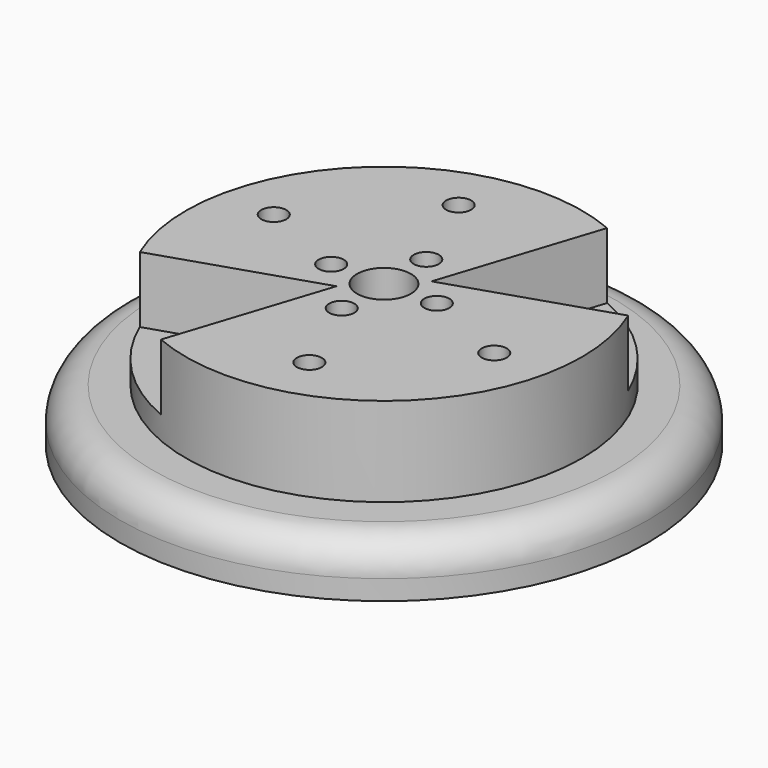
from build123d import *

# Parameters (mm, degrees)
F0_R     = 30
F0_R_2   = 1.9
F0_R_3   = 4.075
F1_DEPTH = 21.5
F0_R_4   = 40
F2_DEPTH = 8
F3_R     = 1.9
F4_DEPTH = 10
F5_R     = 5


with BuildPart() as f1:
    # F0 (on Top) → F1 (new body)
    with BuildSketch(Plane.XY):
        Circle(F0_R)
        with Locations((-15.5563491861, -15.5563491861)):
            Circle(F0_R_2, mode=Mode.SUBTRACT)
        with Locations((5.6940189923, -21.2503681784)):
            Circle(F0_R_2, mode=Mode.SUBTRACT)
        with Locations((0, -8)):
            Circle(F0_R_2, mode=Mode.SUBTRACT)
        with Locations((21.2503681784, -5.6940189923)):
            Circle(F0_R_2, mode=Mode.SUBTRACT)
        with Locations((-21.2503681784, 5.6940189923)):
            Circle(F0_R_2, mode=Mode.SUBTRACT)
        with Locations((-8, 0)):
            Circle(F0_R_2, mode=Mode.SUBTRACT)
        with Locations((-5.6940189923, 21.2503681784)):
            Circle(F0_R_2, mode=Mode.SUBTRACT)
        Circle(F0_R_3, mode=Mode.SUBTRACT)
        with Locations((8, 0)):
            Circle(F0_R_2, mode=Mode.SUBTRACT)
        with Locations((0, 8)):
            Circle(F0_R_2, mode=Mode.SUBTRACT)
        with Locations((15.5563491861, 15.5563491861)):
            Circle(F0_R_2, mode=Mode.SUBTRACT)
    extrude(amount=F1_DEPTH)

    # F0 (on Top) → F2 (join)
    with BuildSketch(Plane.XY):
        Circle(F0_R_4)
        Circle(F0_R, mode=Mode.SUBTRACT)
    extrude(amount=F2_DEPTH)

    # F3 (on face) → F4 (cut)
    with BuildSketch(Plane.XY.offset(21.5)):
        with BuildLine():
            Line((-11.6844405683, -27.6310305382), (-4, -4))
            Line((-4, -4), (-27.6310305382, -11.6844405683))
            ThreePointArc((-27.6310305382, -11.6844405683), (-21.2132034356, -21.2132034356), (-11.6844405683, -27.6310305382))
        make_face()
        with Locations((-15.5563491861, -15.5563491861)):
            Circle(F3_R, mode=Mode.SUBTRACT)
        with BuildLine():
            ThreePointArc((27.6310305382, 11.6844405683), (21.2132034356, 21.2132034356), (11.6844405683, 27.6310305382))
            Line((11.6844405683, 27.6310305382), (4, 4))
            Line((4, 4), (27.6310305382, 11.6844405683))
        make_face()
        with Locations((15.5563491861, 15.5563491861)):
            Circle(F3_R, mode=Mode.SUBTRACT)
    extrude(amount=-F4_DEPTH, mode=Mode.SUBTRACT)

    # F5
    f5_edges = [f1.edges().sort_by_distance(p)[0] for p in [
        (-40, 0, 8),
    ]]
    fillet(f5_edges, radius=F5_R)


solid = f1.part
